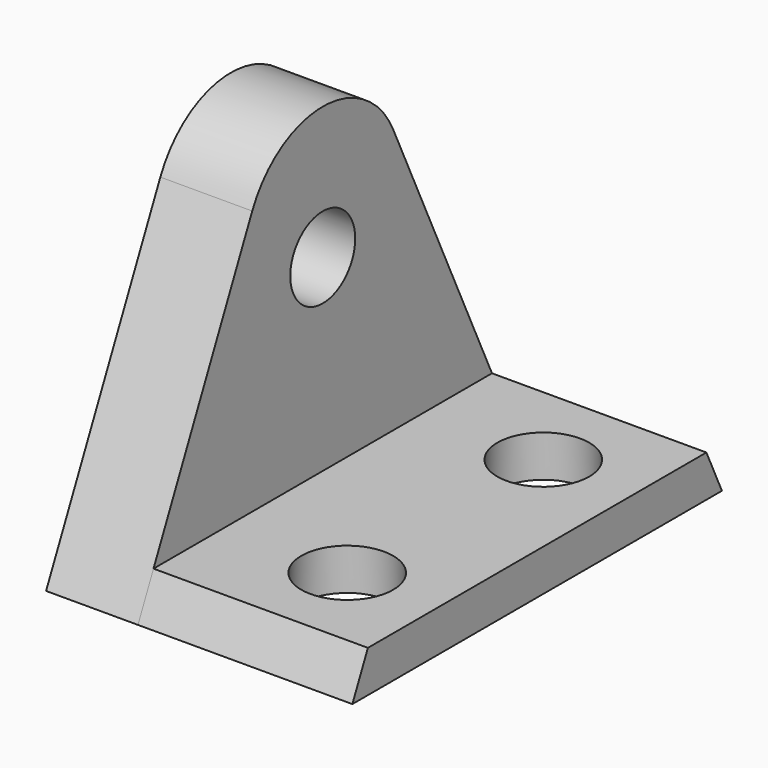
from build123d import *

# Parameters (mm, degrees)
F0_R     = 2.65
F1_DEPTH = 6
F3_DEPTH = 20
F4_R     = 3
F5_DEPTH = 25.4


with BuildPart() as f1:
    # F0 (on Right) → F1 (new body)
    with BuildSketch(Plane.YZ):
        with BuildLine():
            Line((-5.755054, 20), (-15.081208, 0))
            Line((-15.081208, 0), (0, 0))
            Line((0, 0), (15.081208, 0))
            Line((15.081208, 0), (5.755054, 20))
            ThreePointArc((5.755054, 20), (0, 23.666374), (-5.755054, 20))
        make_face()
        with Locations((0, 15)):
            Circle(F0_R, mode=Mode.SUBTRACT)
    extrude(amount=F1_DEPTH)

    # F2 (on Right) → F3 (join)
    with BuildSketch(Plane.YZ):
        Polygon((-13.813353, 2.718923), (-15.081208, 0), (15.081208, 0), (13.813353, 2.718923), align=None)
    extrude(amount=F3_DEPTH)

    # F4 (on Top) → F5 (cut)
    with BuildSketch(Plane.XY):
        with Locations((14, -8)):
            Circle(F4_R)
        with Locations((14, 8)):
            Circle(F4_R)
    extrude(amount=F5_DEPTH, mode=Mode.SUBTRACT)


solid = f1.part
